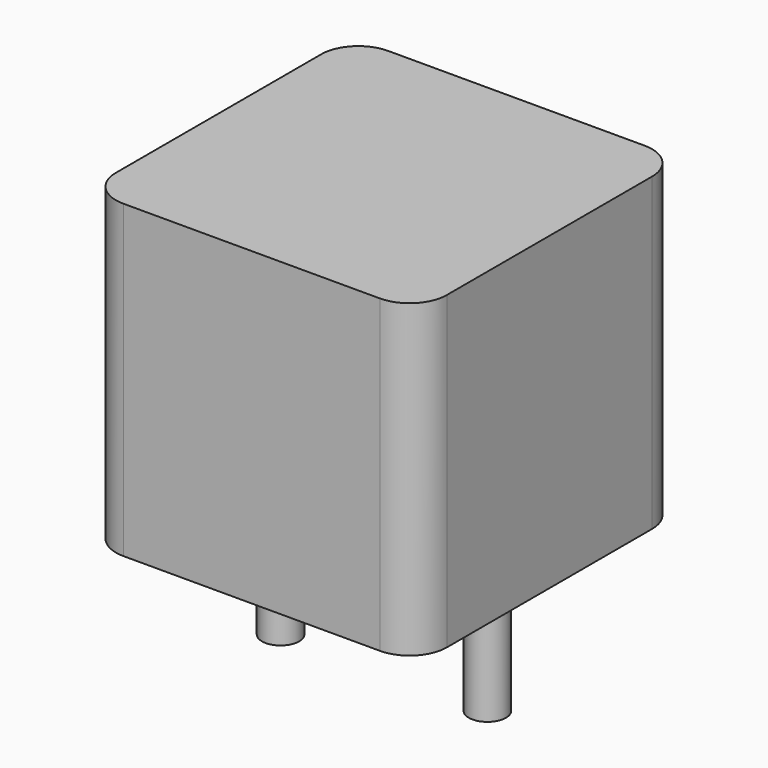
from build123d import *

# Parameters (mm, degrees)
SKETCH001_R  = 0.45
PAD001_DEPTH = 3.5
SKETCH_W     = 8
SKETCH_H     = 8
PAD_DEPTH    = 7.5
FILLET_R     = 0.9


with BuildPart() as pad001:
    # Sketch001 → Pad001 (new body)
    with BuildSketch(Plane.XY.offset(0.5)):
        Circle(SKETCH001_R)
        with Locations((5, 0)):
            Circle(SKETCH001_R)
    extrude(amount=-PAD001_DEPTH)


with BuildPart() as fillet_body:
    # Sketch → Pad (new body)
    with BuildSketch(Plane.XY.offset(0.1)):
        with Locations((2.5, 0)):
            Rectangle(SKETCH_W, SKETCH_H)
    extrude(amount=PAD_DEPTH)

    # Fillet
    fillet_edges = [fillet_body.edges().sort_by_distance(p)[0] for p in [
        (6.5, -4, 3.85),
        (6.5, 4, 3.85),
        (-1.5, -4, 3.85),
        (-1.5, 4, 3.85),
    ]]
    fillet(fillet_edges, radius=FILLET_R)


solid = Compound([pad001.part, fillet_body.part])
